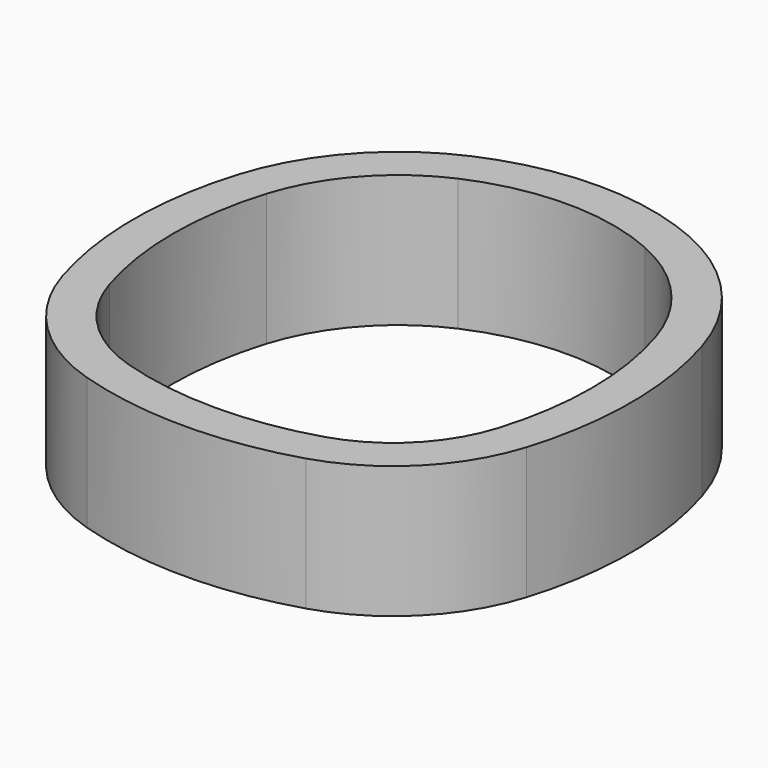
from build123d import *

# Parameters (mm, degrees)
F1_DEPTH = 8.9


with BuildPart() as f1:
    # F0 (on Top) → F1 (new body, symmetric)
    with BuildSketch(Plane.XY):
        with BuildLine():
            ThreePointArc((31.253762, 13.788255), (25.010493, 24.843211), (14.753762, 32.325853))
            ThreePointArc((14.753762, 32.325853), (0, 35.447848), (-14.753762, 32.325853))
            ThreePointArc((-14.753762, 32.325853), (-25.010493, 24.843211), (-31.253762, 13.788255))
            ThreePointArc((-31.253762, 13.788255), (-33.5, -1.029916), (-31.253762, -15.848088))
            ThreePointArc((-31.253762, -15.848088), (-25.042627, -26.128587), (-14.753762, -32.325853))
            ThreePointArc((-14.753762, -32.325853), (0, -34.552152), (14.753762, -32.325853))
            ThreePointArc((14.753762, -32.325853), (25.042627, -26.128587), (31.253762, -15.848088))
            ThreePointArc((31.253762, -15.848088), (33.5, -1.029916), (31.253762, 13.788255))
        make_face()
        with BuildLine():
            ThreePointArc((-12.606863, 27.480151), (0, 30.147848), (12.606863, 27.480151))
            ThreePointArc((12.606863, 27.480151), (21.051571, 21.319442), (26.191863, 12.217529))
            ThreePointArc((26.191863, 12.217529), (28.2, -1.029916), (26.191863, -14.277362))
            ThreePointArc((26.191863, -14.277362), (21.297489, -22.378395), (13.189863, -27.261841))
            ThreePointArc((13.189863, -27.261841), (0, -29.252152), (-13.189863, -27.261841))
            ThreePointArc((-13.189863, -27.261841), (-21.297489, -22.378395), (-26.191863, -14.277362))
            ThreePointArc((-26.191863, -14.277362), (-28.2, -1.029916), (-26.191863, 12.217529))
            ThreePointArc((-26.191863, 12.217529), (-21.051571, 21.319442), (-12.606863, 27.480151))
        make_face(mode=Mode.SUBTRACT)
    extrude(amount=F1_DEPTH, both=True)


solid = f1.part
